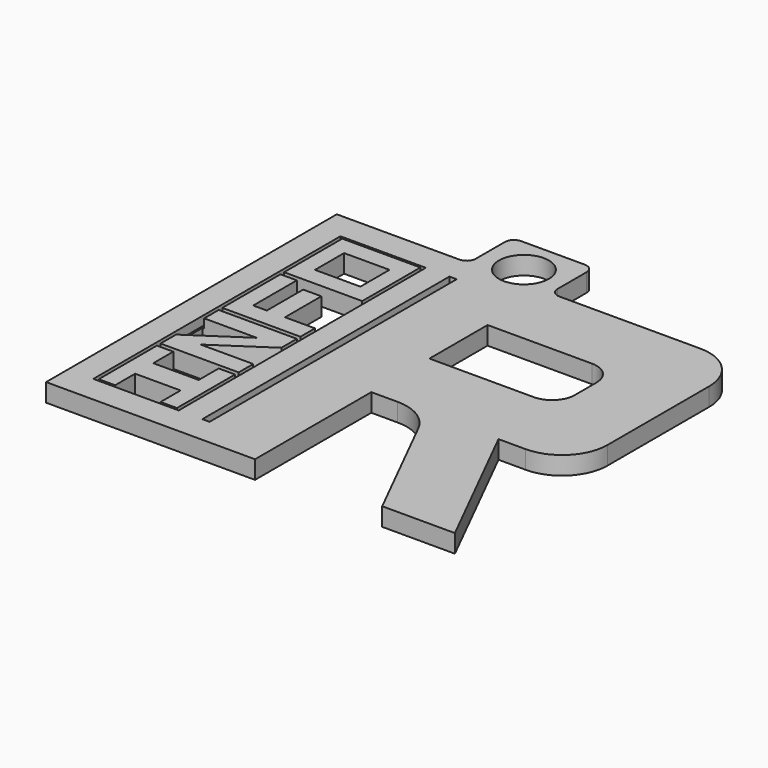
from build123d import *

# Parameters (mm, degrees)
F0_W            = 30
F0_H            = 40
F1_DEPTH        = 2
F2_W            = 14
F2_H            = 8
F3_DEPTH        = 10
F5_DEPTH        = 10
F6_R            = 5
F7_R            = 2.5
F8_W            = 15
F8_H            = 40
F8_W_2          = 9
F8_H_2          = 34
F9_DEPTH        = 2
F10_W           = 0.8
F10_H           = 34
F11_DEPTH       = 10
F12_W           = 9
F12_H           = 8
F13_DEPTH       = 2
F14_W           = 5
F14_H           = 2.75
F14_H_2         = 4
F15_DEPTH       = 10
F17_DEPTH       = 1
F18_W           = 9
F18_H           = 6
F19_DEPTH       = 2
F20_R           = 1
F22_D           = 5.5
F22_CBORE_D     = 6.5
F22_CBORE_DEPTH = 0


with BuildPart() as f1:
    # F0 (on Top) → F1 (new body)
    with BuildSketch(Plane.XY):
        Rectangle(F0_W, F0_H)
    extrude(amount=F1_DEPTH)

    # F2 (on face) → F3 (cut)
    with BuildSketch(Plane.XY.offset(2)):
        with Locations((0, 8)):
            Rectangle(F2_W, F2_H)
    extrude(amount=-F3_DEPTH, mode=Mode.SUBTRACT)

    # F4 (on face) → F5 (cut)
    with BuildSketch(Plane.XY.offset(2)):
        Polygon((-1, -4), (-7, -4), (-7, -20), (7, -20), align=None)
        Polygon((15, -4), (7, -4), (15, -20), align=None)
    extrude(amount=-F5_DEPTH, mode=Mode.SUBTRACT)

    # F6
    f6_edges = [f1.edges().sort_by_distance(p)[0] for p in [
        (15, -4, 1),
        (15, 20, 1),
        (-1, -4, 1),
    ]]
    fillet(f6_edges, radius=F6_R)

    # F7
    f7_edges = [f1.edges().sort_by_distance(p)[0] for p in [
        (7, 12, 1),
        (7, 4, 1),
    ]]
    fillet(f7_edges, radius=F7_R)

    # F8 (on face) → F9 (join)
    with BuildSketch(Plane.XY.offset(2)):
        with Locations((-22.5, 0)):
            Rectangle(F8_W, F8_H)
        with Locations((-22.5, 0)):
            Rectangle(F8_W_2, F8_H_2, mode=Mode.SUBTRACT)
    extrude(amount=-F9_DEPTH)

    # F10 (on face) → F11 (cut)
    with BuildSketch(Plane.XY.offset(2)):
        with Locations((-14.8, 0)):
            Rectangle(F10_W, F10_H)
    extrude(amount=-F11_DEPTH, mode=Mode.SUBTRACT)

    # F12 (on face) → F13 (join)
    with BuildSketch(Plane.XY.offset(2)):
        with Locations((-22.5, -12.75)):
            Rectangle(F12_W, F12_H)
        with Locations((-22.5, -4.25)):
            Rectangle(F12_W, F12_H)
        with Locations((-22.5, 4.25)):
            Rectangle(F12_W, F12_H)
        with Locations((-22.5, 12.75)):
            Rectangle(F12_W, F12_H)
    extrude(amount=-F13_DEPTH)

    # F14 (on face) → F15 (cut)
    with BuildSketch(Plane.XY.offset(2)):
        with Locations((-22.5, -15.375)):
            Rectangle(F14_W, F14_H)
        with Locations((-22.5, -10.125)):
            Rectangle(F14_W, F14_H)
        Polygon((-27, -2.25), (-27, -6.25), (-21, -2.25), align=None)
        Polygon((-23.9995513111, -6.25), (-18, -6.25), (-18, -2.25), align=None)
        Polygon((-21.5, 2.25), (-18, 2.25), (-18, 8.25), (-25, 8.25), (-25, 2.25), (-23.5, 2.25), (-23.5, 7.25), (-21.5, 7.25), align=None)
        with Locations((-22.5, 12.75)):
            Rectangle(F14_W, F14_H_2)
    extrude(amount=-F15_DEPTH, mode=Mode.SUBTRACT)

    # F16 (on face) → F17 (cut)
    with BuildSketch(Plane.XY.offset(2)):
        Polygon((-27.2, 17), (-27.2, -17), (-27, -17), (-27, -16.75), (-26.8, -16.75), (-26.8, -8.75), (-27, -8.75), (-27, -8.25), (-26.8, -8.25), (-26.8, -6.1166666667), (-27, -6.25), (-27, -2.25), (-26.8, -2.25), (-26.8, -0.25), (-27, -0.25), (-27, 0.25), (-26.8, 0.25), (-26.8, 8.25), (-27, 8.25), (-27, 8.75), (-26.8, 8.75), (-26.8, 16.75), (-27, 16.75), (-27, 17), align=None)
        Polygon((-18, -16.75), (-18, -17), (-17.8, -17), (-17.8, 17), (-18, 17), (-18, 16.75), (-18.2, 16.75), (-18.2, 8.75), (-18, 8.75), (-18, 2.25), (-18.2, 2.25), (-18.2, 0.25), (-18, 0.25), (-18, -0.25), (-18.2, -0.25), (-18.2, -2.3833433049), (-18, -2.25), (-18, -6.25), (-18.2, -6.25), (-18.2, -8.25), (-18, -8.25), (-18, -8.75), (-18.2, -8.75), (-18.2, -16.75), align=None)
    extrude(amount=-F17_DEPTH, mode=Mode.SUBTRACT)

    # F18 (on face) → F19 (join)
    with BuildSketch(Plane.XY.offset(2)):
        with Locations((-11, 23)):
            Rectangle(F18_W, F18_H)
    extrude(amount=-F19_DEPTH)

    # F20
    f20_edges = [f1.edges().sort_by_distance(p)[0] for p in [
        (-15.5, 26, 1),
        (-6.5, 26, 1),
        (-6.5, 20, 1),
        (-15.5, 20, 1),
    ]]
    fillet(f20_edges, radius=F20_R)

    # F22 (through all)
    with Locations(Plane.XY.offset(2)):
        with Locations((-11, 22)):
            CounterBoreHole(F22_D / 2, F22_CBORE_D / 2, F22_CBORE_DEPTH)


solid = f1.part
